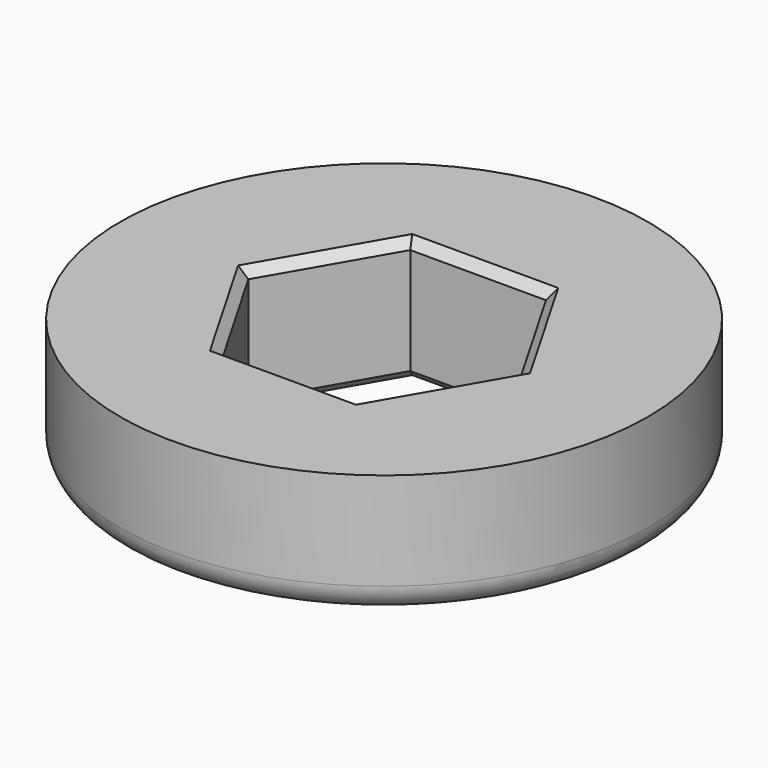
from build123d import *

# Parameters (mm, degrees)
F0_R     = 29.75
F1_DEPTH = 14
F2_R     = 3
F3_SIZE  = 1
F4_SIZE  = 1


with BuildPart() as f1:
    # F0 (on Top) → F1 (new body)
    with BuildSketch(Plane.XY):
        Circle(F0_R)
        Polygon((15.299782, 0), (7.649891, -13.25), (-7.649891, -13.25), (-15.299782, 0), (-7.649891, 13.25), (7.649891, 13.25), align=None, mode=Mode.SUBTRACT)
    extrude(amount=F1_DEPTH)

    # F2
    f2_edges = [f1.edges().sort_by_distance(p)[0] for p in [
        (-29.75, 0, 0),
    ]]
    fillet(f2_edges, radius=F2_R)

    # F3
    f3_edges = [f1.edges().sort_by_distance(p)[0] for p in [
        (-11.474837, -6.625, 14),
        (-11.474837, 6.625, 14),
        (0, 13.25, 14),
        (11.474837, -6.625, 14),
        (11.474837, 6.625, 0),
        (0, -13.25, 14),
        (11.474837, 6.625, 14),
    ]]
    chamfer(f3_edges, length=F3_SIZE)

    # F4
    f4_edges = [f1.edges().sort_by_distance(p)[0] for p in [
        (11.474837, -6.625, 0),
        (0, -13.25, 0),
        (-11.474837, -6.625, 0),
        (-11.474837, 6.625, 0),
        (0, 13.25, 0),
    ]]
    chamfer(f4_edges, length=F4_SIZE)


solid = f1.part
